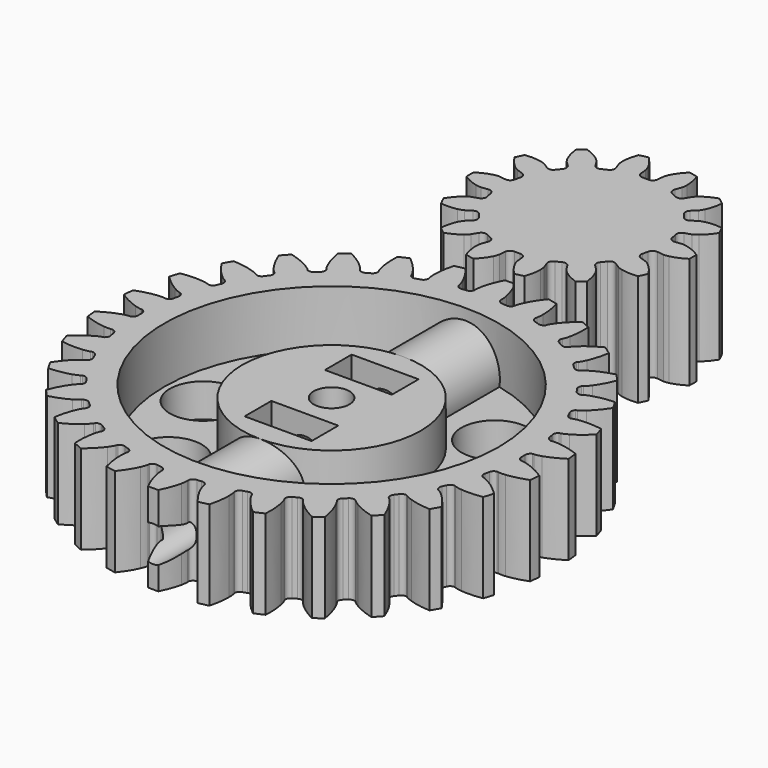
from build123d import *

# Parameters (mm, degrees)
PAD001_DEPTH           = 10
CYLINDER007_R          = 1.6
CYLINDER007_DEPTH      = 50
CYLINDER007_ROLL_ANGLE = 90
BOX003_W               = 6
BOX003_H               = 3
BOX003_DEPTH           = 10
BOX002_W               = 6
BOX002_H               = 3
BOX002_DEPTH           = 10
CYLINDER001_R          = 1.6
CYLINDER001_DEPTH      = 10
CYLINDER008_R          = 3
CYLINDER008_DEPTH      = 10
CYLINDER009_R          = 3
CYLINDER009_DEPTH      = 10
CYLINDER006_R          = 3
CYLINDER006_DEPTH      = 10
CYLINDER005_R          = 3
CYLINDER005_DEPTH      = 10
CYLINDER010_R          = 3
CYLINDER010_DEPTH      = 10
CYLINDER011_R          = 3
CYLINDER011_DEPTH      = 10
CYLINDER_R             = 15
CYLINDER_DEPTH         = 5
PAD_DEPTH              = 8
CYLINDER012_R          = 3.4
CYLINDER012_DEPTH      = 32
CYLINDER012_ROLL_ANGLE = 90
CYLINDER003_R          = 8
CYLINDER003_DEPTH      = 7


with BuildPart() as smallgear:
    # InvoluteGear001 → Pad001 (new body)
    with BuildSketch(Plane.XY):
        with BuildLine():
            Line((7.580241, -0.968702), (8.176422, -1.043899))
            add(Edge.make_bspline(
                [(8.176422, -1.043899), (8.229842, -1.046943), (8.390363, -1.048686), (8.659395, -0.988229)],
                knots=[0, 0, 0, 0, 1, 1, 1, 1], degree=3))
            add(Edge.make_bspline(
                [(8.659395, -0.988229), (8.980207, -0.914566), (9.438706, -0.753064), (9.993456, -0.402975)],
                knots=[0, 0, 0, 0, 1, 1, 1, 1], degree=3))
            ThreePointArc((9.993456, -0.402975), (10.001578, 0), (9.993456, 0.402975))
            add(Edge.make_bspline(
                [(9.993456, 0.402975), (9.438706, 0.753064), (8.980207, 0.914566), (8.659395, 0.988229)],
                knots=[0, 0, 0, 0, 1, 1, 1, 1], degree=3))
            add(Edge.make_bspline(
                [(8.659395, 0.988229), (8.390363, 1.048686), (8.229842, 1.046943), (8.176422, 1.043899)],
                knots=[0, 0, 0, 0, 1, 1, 1, 1], degree=3))
            Line((8.176422, 1.043899), (7.580241, 0.968702))
            ThreePointArc((7.580241, 0.968702), (7.245879, 1.054021), (7.060517, 1.345086))
            ThreePointArc((7.060517, 1.345086), (7.007294, 1.599369), (6.944917, 1.851563))
            ThreePointArc((6.944917, 1.851563), (6.985634, 2.194229), (7.249865, 2.416173))
            Line((7.249865, 2.416173), (7.819632, 2.607096))
            add(Edge.make_bspline(
                [(7.819632, 2.607096), (7.869083, 2.627531), (8.014464, 2.695608), (8.230622, 2.866807)],
                knots=[0, 0, 0, 0, 1, 1, 1, 1], degree=3))
            add(Edge.make_bspline(
                [(8.230622, 2.866807), (8.487703, 3.07237), (8.830722, 3.416814), (9.178637, 3.97293)],
                knots=[0, 0, 0, 0, 1, 1, 1, 1], degree=3))
            ThreePointArc((9.178637, 3.97293), (9.011111, 4.339522), (8.828948, 4.699066))
            add(Edge.make_bspline(
                [(8.828948, 4.699066), (8.177238, 4.773788), (7.694072, 4.720361), (7.373069, 4.647535)],
                knots=[0, 0, 0, 0, 1, 1, 1, 1], degree=3))
            add(Edge.make_bspline(
                [(7.373069, 4.647535), (7.104448, 4.585276), (6.960579, 4.514058), (6.913771, 4.488137)],
                knots=[0, 0, 0, 0, 1, 1, 1, 1], degree=3))
            Line((6.913771, 4.488137), (6.409257, 4.161714))
            ThreePointArc((6.409257, 4.161714), (6.070989, 4.093509), (5.777695, 4.275324))
            ThreePointArc((5.777695, 4.275324), (5.619414, 4.481333), (5.453791, 4.681487))
            ThreePointArc((5.453791, 4.681487), (5.341799, 5.007885), (5.483565, 5.322495))
            Line((5.483565, 5.322495), (5.914069, 5.741724))
            add(Edge.make_bspline(
                [(5.914069, 5.741724), (5.949756, 5.781591), (6.051202, 5.906005), (6.171673, 6.154037)],
                knots=[0, 0, 0, 0, 1, 1, 1, 1], degree=3))
            add(Edge.make_bspline(
                [(6.171673, 6.154037), (6.314104, 6.450786), (6.473706, 6.90995), (6.545876, 7.561947)],
                knots=[0, 0, 0, 0, 1, 1, 1, 1], degree=3))
            ThreePointArc((6.545876, 7.561947), (6.235882, 7.819549), (5.915759, 8.064449))
            add(Edge.make_bspline(
                [(5.915759, 8.064449), (5.296168, 7.849005), (4.884031, 7.591231), (4.626416, 7.386339)],
                knots=[0, 0, 0, 0, 1, 1, 1, 1], degree=3))
            add(Edge.make_bspline(
                [(4.626416, 7.386339), (4.41141, 7.213696), (4.312689, 7.087108), (4.281763, 7.043444)],
                knots=[0, 0, 0, 0, 1, 1, 1, 1], degree=3))
            Line((4.281763, 7.043444), (3.968841, 6.530447))
            ThreePointArc((3.968841, 6.530447), (3.693665, 6.322228), (3.35053, 6.358782))
            ThreePointArc((3.35053, 6.358782), (3.118539, 6.475714), (2.882474, 6.584185))
            ThreePointArc((2.882474, 6.584185), (2.639954, 6.829668), (2.631177, 7.174632))
            Line((2.631177, 7.174632), (2.837151, 7.739133))
            add(Edge.make_bspline(
                [(2.837151, 7.739133), (2.852006, 7.790535), (2.889425, 7.946645), (2.890349, 8.222385)],
                knots=[0, 0, 0, 0, 1, 1, 1, 1], degree=3))
            add(Edge.make_bspline(
                [(2.890349, 8.222385), (2.88992, 8.551545), (2.834492, 9.034486), (2.616625, 9.653228)],
                knots=[0, 0, 0, 0, 1, 1, 1, 1], degree=3))
            ThreePointArc((2.616625, 9.653228), (2.225561, 9.750818), (1.830881, 9.832569))
            add(Edge.make_bspline(
                [(1.830881, 9.832569), (1.366127, 9.369631), (1.106648, 8.958565), (0.963444, 8.662188)],
                knots=[0, 0, 0, 0, 1, 1, 1, 1], degree=3))
            add(Edge.make_bspline(
                [(0.963444, 8.662188), (0.844638, 8.413354), (0.810618, 8.256469), (0.801699, 8.203711)],
                knots=[0, 0, 0, 0, 1, 1, 1, 1], degree=3))
            Line((0.801699, 8.203711), (0.742348, 7.605745))
            ThreePointArc((0.742348, 7.605745), (0.584765, 7.298751), (0.259751, 7.182805))
            ThreePointArc((0.259751, 7.182805), (0, 7.1875), (-0.259751, 7.182805))
            ThreePointArc((-0.259751, 7.182805), (-0.584765, 7.298751), (-0.742348, 7.605745))
            Line((-0.742348, 7.605745), (-0.801699, 8.203711))
            add(Edge.make_bspline(
                [(-0.801699, 8.203711), (-0.810618, 8.256469), (-0.844638, 8.413354), (-0.963444, 8.662188)],
                knots=[0, 0, 0, 0, 1, 1, 1, 1], degree=3))
            add(Edge.make_bspline(
                [(-0.963444, 8.662188), (-1.106648, 8.958565), (-1.366127, 9.369631), (-1.830881, 9.832569)],
                knots=[0, 0, 0, 0, 1, 1, 1, 1], degree=3))
            ThreePointArc((-1.830881, 9.832569), (-2.225561, 9.750818), (-2.616625, 9.653228))
            add(Edge.make_bspline(
                [(-2.616625, 9.653228), (-2.834492, 9.034486), (-2.88992, 8.551545), (-2.890349, 8.222385)],
                knots=[0, 0, 0, 0, 1, 1, 1, 1], degree=3))
            add(Edge.make_bspline(
                [(-2.890349, 8.222385), (-2.889425, 7.946645), (-2.852006, 7.790535), (-2.837151, 7.739133)],
                knots=[0, 0, 0, 0, 1, 1, 1, 1], degree=3))
            Line((-2.837151, 7.739133), (-2.631177, 7.174632))
            ThreePointArc((-2.631177, 7.174632), (-2.639954, 6.829668), (-2.882474, 6.584185))
            ThreePointArc((-2.882474, 6.584185), (-3.118539, 6.475714), (-3.35053, 6.358782))
            ThreePointArc((-3.35053, 6.358782), (-3.693665, 6.322228), (-3.968841, 6.530447))
            Line((-3.968841, 6.530447), (-4.281763, 7.043444))
            add(Edge.make_bspline(
                [(-4.281763, 7.043444), (-4.312689, 7.087108), (-4.41141, 7.213696), (-4.626416, 7.386339)],
                knots=[0, 0, 0, 0, 1, 1, 1, 1], degree=3))
            add(Edge.make_bspline(
                [(-4.626416, 7.386339), (-4.884031, 7.591231), (-5.296168, 7.849005), (-5.915759, 8.064449)],
                knots=[0, 0, 0, 0, 1, 1, 1, 1], degree=3))
            ThreePointArc((-5.915759, 8.064449), (-6.235882, 7.819549), (-6.545876, 7.561947))
            add(Edge.make_bspline(
                [(-6.545876, 7.561947), (-6.473706, 6.90995), (-6.314104, 6.450786), (-6.171673, 6.154037)],
                knots=[0, 0, 0, 0, 1, 1, 1, 1], degree=3))
            add(Edge.make_bspline(
                [(-6.171673, 6.154037), (-6.051202, 5.906005), (-5.949756, 5.781591), (-5.914069, 5.741724)],
                knots=[0, 0, 0, 0, 1, 1, 1, 1], degree=3))
            Line((-5.914069, 5.741724), (-5.483565, 5.322495))
            ThreePointArc((-5.483565, 5.322495), (-5.341799, 5.007885), (-5.453791, 4.681487))
            ThreePointArc((-5.453791, 4.681487), (-5.619414, 4.481333), (-5.777695, 4.275324))
            ThreePointArc((-5.777695, 4.275324), (-6.070989, 4.093509), (-6.409257, 4.161714))
            Line((-6.409257, 4.161714), (-6.913771, 4.488137))
            add(Edge.make_bspline(
                [(-6.913771, 4.488137), (-6.960579, 4.514058), (-7.104448, 4.585276), (-7.373069, 4.647535)],
                knots=[0, 0, 0, 0, 1, 1, 1, 1], degree=3))
            add(Edge.make_bspline(
                [(-7.373069, 4.647535), (-7.694072, 4.720361), (-8.177238, 4.773788), (-8.828948, 4.699066)],
                knots=[0, 0, 0, 0, 1, 1, 1, 1], degree=3))
            ThreePointArc((-8.828948, 4.699066), (-9.011111, 4.339522), (-9.178637, 3.97293))
            add(Edge.make_bspline(
                [(-9.178637, 3.97293), (-8.830722, 3.416814), (-8.487703, 3.07237), (-8.230622, 2.866807)],
                knots=[0, 0, 0, 0, 1, 1, 1, 1], degree=3))
            add(Edge.make_bspline(
                [(-8.230622, 2.866807), (-8.014464, 2.695608), (-7.869083, 2.627531), (-7.819632, 2.607096)],
                knots=[0, 0, 0, 0, 1, 1, 1, 1], degree=3))
            Line((-7.819632, 2.607096), (-7.249865, 2.416173))
            ThreePointArc((-7.249865, 2.416173), (-6.985634, 2.194229), (-6.944917, 1.851563))
            ThreePointArc((-6.944917, 1.851563), (-7.007294, 1.599369), (-7.060517, 1.345086))
            ThreePointArc((-7.060517, 1.345086), (-7.245879, 1.054021), (-7.580241, 0.968702))
            Line((-7.580241, 0.968702), (-8.176422, 1.043899))
            add(Edge.make_bspline(
                [(-8.176422, 1.043899), (-8.229842, 1.046943), (-8.390363, 1.048686), (-8.659395, 0.988229)],
                knots=[0, 0, 0, 0, 1, 1, 1, 1], degree=3))
            add(Edge.make_bspline(
                [(-8.659395, 0.988229), (-8.980207, 0.914566), (-9.438706, 0.753064), (-9.993456, 0.402975)],
                knots=[0, 0, 0, 0, 1, 1, 1, 1], degree=3))
            ThreePointArc((-9.993456, 0.402975), (-10.001578, 0), (-9.993456, -0.402975))
            add(Edge.make_bspline(
                [(-9.993456, -0.402975), (-9.438706, -0.753064), (-8.980207, -0.914566), (-8.659395, -0.988229)],
                knots=[0, 0, 0, 0, 1, 1, 1, 1], degree=3))
            add(Edge.make_bspline(
                [(-8.659395, -0.988229), (-8.390363, -1.048686), (-8.229842, -1.046943), (-8.176422, -1.043899)],
                knots=[0, 0, 0, 0, 1, 1, 1, 1], degree=3))
            Line((-8.176422, -1.043899), (-7.580241, -0.968702))
            ThreePointArc((-7.580241, -0.968702), (-7.245879, -1.054021), (-7.060517, -1.345086))
            ThreePointArc((-7.060517, -1.345086), (-7.007294, -1.599369), (-6.944917, -1.851563))
            ThreePointArc((-6.944917, -1.851563), (-6.985634, -2.194229), (-7.249865, -2.416173))
            Line((-7.249865, -2.416173), (-7.819632, -2.607096))
            add(Edge.make_bspline(
                [(-7.819632, -2.607096), (-7.869083, -2.627531), (-8.014464, -2.695608), (-8.230622, -2.866807)],
                knots=[0, 0, 0, 0, 1, 1, 1, 1], degree=3))
            add(Edge.make_bspline(
                [(-8.230622, -2.866807), (-8.487703, -3.07237), (-8.830722, -3.416814), (-9.178637, -3.97293)],
                knots=[0, 0, 0, 0, 1, 1, 1, 1], degree=3))
            ThreePointArc((-9.178637, -3.97293), (-9.011111, -4.339522), (-8.828948, -4.699066))
            add(Edge.make_bspline(
                [(-8.828948, -4.699066), (-8.177238, -4.773788), (-7.694072, -4.720361), (-7.373069, -4.647535)],
                knots=[0, 0, 0, 0, 1, 1, 1, 1], degree=3))
            add(Edge.make_bspline(
                [(-7.373069, -4.647535), (-7.104448, -4.585276), (-6.960579, -4.514058), (-6.913771, -4.488137)],
                knots=[0, 0, 0, 0, 1, 1, 1, 1], degree=3))
            Line((-6.913771, -4.488137), (-6.409257, -4.161714))
            ThreePointArc((-6.409257, -4.161714), (-6.070989, -4.093509), (-5.777695, -4.275324))
            ThreePointArc((-5.777695, -4.275324), (-5.619414, -4.481333), (-5.453791, -4.681487))
            ThreePointArc((-5.453791, -4.681487), (-5.341799, -5.007885), (-5.483565, -5.322495))
            Line((-5.483565, -5.322495), (-5.914069, -5.741724))
            add(Edge.make_bspline(
                [(-5.914069, -5.741724), (-5.949756, -5.781591), (-6.051202, -5.906005), (-6.171673, -6.154037)],
                knots=[0, 0, 0, 0, 1, 1, 1, 1], degree=3))
            add(Edge.make_bspline(
                [(-6.171673, -6.154037), (-6.314104, -6.450786), (-6.473706, -6.90995), (-6.545876, -7.561947)],
                knots=[0, 0, 0, 0, 1, 1, 1, 1], degree=3))
            ThreePointArc((-6.545876, -7.561947), (-6.235882, -7.819549), (-5.915759, -8.064449))
            add(Edge.make_bspline(
                [(-5.915759, -8.064449), (-5.296168, -7.849005), (-4.884031, -7.591231), (-4.626416, -7.386339)],
                knots=[0, 0, 0, 0, 1, 1, 1, 1], degree=3))
            add(Edge.make_bspline(
                [(-4.626416, -7.386339), (-4.41141, -7.213696), (-4.312689, -7.087108), (-4.281763, -7.043444)],
                knots=[0, 0, 0, 0, 1, 1, 1, 1], degree=3))
            Line((-4.281763, -7.043444), (-3.968841, -6.530447))
            ThreePointArc((-3.968841, -6.530447), (-3.693665, -6.322228), (-3.35053, -6.358782))
            ThreePointArc((-3.35053, -6.358782), (-3.118539, -6.475714), (-2.882474, -6.584185))
            ThreePointArc((-2.882474, -6.584185), (-2.639954, -6.829668), (-2.631177, -7.174632))
            Line((-2.631177, -7.174632), (-2.837151, -7.739133))
            add(Edge.make_bspline(
                [(-2.837151, -7.739133), (-2.852006, -7.790535), (-2.889425, -7.946645), (-2.890349, -8.222385)],
                knots=[0, 0, 0, 0, 1, 1, 1, 1], degree=3))
            add(Edge.make_bspline(
                [(-2.890349, -8.222385), (-2.88992, -8.551545), (-2.834492, -9.034486), (-2.616625, -9.653228)],
                knots=[0, 0, 0, 0, 1, 1, 1, 1], degree=3))
            ThreePointArc((-2.616625, -9.653228), (-2.225561, -9.750818), (-1.830881, -9.832569))
            add(Edge.make_bspline(
                [(-1.830881, -9.832569), (-1.366127, -9.369631), (-1.106648, -8.958565), (-0.963444, -8.662188)],
                knots=[0, 0, 0, 0, 1, 1, 1, 1], degree=3))
            add(Edge.make_bspline(
                [(-0.963444, -8.662188), (-0.844638, -8.413354), (-0.810618, -8.256469), (-0.801699, -8.203711)],
                knots=[0, 0, 0, 0, 1, 1, 1, 1], degree=3))
            Line((-0.801699, -8.203711), (-0.742348, -7.605745))
            ThreePointArc((-0.742348, -7.605745), (-0.584765, -7.298751), (-0.259751, -7.182805))
            ThreePointArc((-0.259751, -7.182805), (0, -7.1875), (0.259751, -7.182805))
            ThreePointArc((0.259751, -7.182805), (0.584765, -7.298751), (0.742348, -7.605745))
            Line((0.742348, -7.605745), (0.801699, -8.203711))
            add(Edge.make_bspline(
                [(0.801699, -8.203711), (0.810618, -8.256469), (0.844638, -8.413354), (0.963444, -8.662188)],
                knots=[0, 0, 0, 0, 1, 1, 1, 1], degree=3))
            add(Edge.make_bspline(
                [(0.963444, -8.662188), (1.106648, -8.958565), (1.366127, -9.369631), (1.830881, -9.832569)],
                knots=[0, 0, 0, 0, 1, 1, 1, 1], degree=3))
            ThreePointArc((1.830881, -9.832569), (2.225561, -9.750818), (2.616625, -9.653228))
            add(Edge.make_bspline(
                [(2.616625, -9.653228), (2.834492, -9.034486), (2.88992, -8.551545), (2.890349, -8.222385)],
                knots=[0, 0, 0, 0, 1, 1, 1, 1], degree=3))
            add(Edge.make_bspline(
                [(2.890349, -8.222385), (2.889425, -7.946645), (2.852006, -7.790535), (2.837151, -7.739133)],
                knots=[0, 0, 0, 0, 1, 1, 1, 1], degree=3))
            Line((2.837151, -7.739133), (2.631177, -7.174632))
            ThreePointArc((2.631177, -7.174632), (2.639954, -6.829668), (2.882474, -6.584185))
            ThreePointArc((2.882474, -6.584185), (3.118539, -6.475714), (3.35053, -6.358782))
            ThreePointArc((3.35053, -6.358782), (3.693665, -6.322228), (3.968841, -6.530447))
            Line((3.968841, -6.530447), (4.281763, -7.043444))
            add(Edge.make_bspline(
                [(4.281763, -7.043444), (4.312689, -7.087108), (4.41141, -7.213696), (4.626416, -7.386339)],
                knots=[0, 0, 0, 0, 1, 1, 1, 1], degree=3))
            add(Edge.make_bspline(
                [(4.626416, -7.386339), (4.884031, -7.591231), (5.296168, -7.849005), (5.915759, -8.064449)],
                knots=[0, 0, 0, 0, 1, 1, 1, 1], degree=3))
            ThreePointArc((5.915759, -8.064449), (6.235882, -7.819549), (6.545876, -7.561947))
            add(Edge.make_bspline(
                [(6.545876, -7.561947), (6.473706, -6.90995), (6.314104, -6.450786), (6.171673, -6.154037)],
                knots=[0, 0, 0, 0, 1, 1, 1, 1], degree=3))
            add(Edge.make_bspline(
                [(6.171673, -6.154037), (6.051202, -5.906005), (5.949756, -5.781591), (5.914069, -5.741724)],
                knots=[0, 0, 0, 0, 1, 1, 1, 1], degree=3))
            Line((5.914069, -5.741724), (5.483565, -5.322495))
            ThreePointArc((5.483565, -5.322495), (5.341799, -5.007885), (5.453791, -4.681487))
            ThreePointArc((5.453791, -4.681487), (5.619414, -4.481333), (5.777695, -4.275324))
            ThreePointArc((5.777695, -4.275324), (6.070989, -4.093509), (6.409257, -4.161714))
            Line((6.409257, -4.161714), (6.913771, -4.488137))
            add(Edge.make_bspline(
                [(6.913771, -4.488137), (6.960579, -4.514058), (7.104448, -4.585276), (7.373069, -4.647535)],
                knots=[0, 0, 0, 0, 1, 1, 1, 1], degree=3))
            add(Edge.make_bspline(
                [(7.373069, -4.647535), (7.694072, -4.720361), (8.177238, -4.773788), (8.828948, -4.699066)],
                knots=[0, 0, 0, 0, 1, 1, 1, 1], degree=3))
            ThreePointArc((8.828948, -4.699066), (9.011111, -4.339522), (9.178637, -3.97293))
            add(Edge.make_bspline(
                [(9.178637, -3.97293), (8.830722, -3.416814), (8.487703, -3.07237), (8.230622, -2.866807)],
                knots=[0, 0, 0, 0, 1, 1, 1, 1], degree=3))
            add(Edge.make_bspline(
                [(8.230622, -2.866807), (8.014464, -2.695608), (7.869083, -2.627531), (7.819632, -2.607096)],
                knots=[0, 0, 0, 0, 1, 1, 1, 1], degree=3))
            Line((7.819632, -2.607096), (7.249865, -2.416173))
            ThreePointArc((7.249865, -2.416173), (6.985634, -2.194229), (6.944917, -1.851563))
            ThreePointArc((6.944917, -1.851563), (7.007294, -1.599369), (7.060517, -1.345086))
            ThreePointArc((7.060517, -1.345086), (7.245879, -1.054021), (7.580241, -0.968702))
        make_face()
    extrude(amount=PAD001_DEPTH)


with BuildPart() as obj1:
    # Cylinder007 → Cylinder007 (new body)
    with BuildSketch(Plane.XY):
        Circle(CYLINDER007_R)
    extrude(amount=CYLINDER007_DEPTH)


with BuildPart() as obj1_1:
    # Cylinder007 roll: moved
    add(obj1.part.rotate(Axis((0, 0, 0), (1, 0, 0)), CYLINDER007_ROLL_ANGLE))


with BuildPart() as obj1_2:
    # Cylinder007 placement: moved
    add(obj1_1.part.moved(Location((0, 0, 3.6))))


with BuildPart() as obj2:
    # Box003 → Box003 (new body)
    with BuildSketch(Plane(origin=(-3, -34, 0), x_dir=(1, 0, 0), z_dir=(0, 0, 1))):
        with Locations((3, 1.5)):
            Rectangle(BOX003_W, BOX003_H)
    extrude(amount=BOX003_DEPTH)


with BuildPart() as obj3:
    # Box002 → Box002 (new body)
    with BuildSketch(Plane(origin=(-3, -25, 0), x_dir=(1, 0, 0), z_dir=(0, 0, 1))):
        with Locations((3, 1.5)):
            Rectangle(BOX002_W, BOX002_H)
    extrude(amount=BOX002_DEPTH)


with BuildPart() as cylinder001:
    # Cylinder001 → Cylinder001 (new body)
    with BuildSketch(Plane(origin=(0, -28, 0), x_dir=(1, 0, 0), z_dir=(0, 0, 1))):
        Circle(CYLINDER001_R)
    extrude(amount=CYLINDER001_DEPTH)


with BuildPart() as cylinder008:
    # Cylinder008 → Cylinder008 (new body)
    with BuildSketch(Plane(origin=(8.13, -19.87, 0), x_dir=(1, 0, 0), z_dir=(0, 0, 1))):
        Circle(CYLINDER008_R)
    extrude(amount=CYLINDER008_DEPTH)


with BuildPart() as cylinder009:
    # Cylinder009 → Cylinder009 (new body)
    with BuildSketch(Plane(origin=(8.13, -36.13, 0), x_dir=(1, 0, 0), z_dir=(0, 0, 1))):
        Circle(CYLINDER009_R)
    extrude(amount=CYLINDER009_DEPTH)


with BuildPart() as cylinder006:
    # Cylinder006 → Cylinder006 (new body)
    with BuildSketch(Plane(origin=(-11.5, -28, 0), x_dir=(1, 0, 0), z_dir=(0, 0, 1))):
        Circle(CYLINDER006_R)
    extrude(amount=CYLINDER006_DEPTH)


with BuildPart() as cylinder005:
    # Cylinder005 → Cylinder005 (new body)
    with BuildSketch(Plane(origin=(11.5, -28, 0), x_dir=(1, 0, 0), z_dir=(0, 0, 1))):
        Circle(CYLINDER005_R)
    extrude(amount=CYLINDER005_DEPTH)


with BuildPart() as cylinder010:
    # Cylinder010 → Cylinder010 (new body)
    with BuildSketch(Plane(origin=(-8.13, -19.87, 0), x_dir=(1, 0, 0), z_dir=(0, 0, 1))):
        Circle(CYLINDER010_R)
    extrude(amount=CYLINDER010_DEPTH)


with BuildPart() as obj4:
    # Cylinder011 → Cylinder011 (new body)
    with BuildSketch(Plane(origin=(-8.13, -36.13, 0), x_dir=(1, 0, 0), z_dir=(0, 0, 1))):
        Circle(CYLINDER011_R)
    extrude(amount=CYLINDER011_DEPTH)

    # Fusion: union Cylinder001, Cylinder008, Cylinder009, Cylinder006, Cylinder005, Cylinder010
    add(cylinder001.part)
    add(cylinder008.part)
    add(cylinder009.part)
    add(cylinder006.part)
    add(cylinder005.part)
    add(cylinder010.part)


with BuildPart() as obj5:
    # Cylinder → Cylinder (new body)
    with BuildSketch(Plane(origin=(0, -28, 3), x_dir=(1, 0, 0), z_dir=(0, 0, 1))):
        Circle(CYLINDER_R)
    extrude(amount=CYLINDER_DEPTH)


with BuildPart() as cut:
    # InvoluteGear → Pad (new body)
    with BuildSketch(Plane(origin=(0, -28, 0), x_dir=(0.994522, 0.104528, 0), z_dir=(0, 0, 1))):
        with BuildLine():
            Line((17.460426, -1.176237), (17.605424, -1.185048))
            add(Edge.make_bspline(
                [(17.605424, -1.185048), (17.674455, -1.185953), (17.882541, -1.181217), (18.228863, -1.109632)],
                knots=[0, 0, 0, 0, 1, 1, 1, 1], degree=3))
            add(Edge.make_bspline(
                [(18.228863, -1.109632), (18.644116, -1.022848), (19.245071, -0.840739), (19.995964, -0.460396)],
                knots=[0, 0, 0, 0, 1, 1, 1, 1], degree=3))
            ThreePointArc((19.995964, -0.460396), (20.001264, 0), (19.995964, 0.460396))
            add(Edge.make_bspline(
                [(19.995964, 0.460396), (19.245071, 0.840739), (18.644116, 1.022848), (18.228863, 1.109632)],
                knots=[0, 0, 0, 0, 1, 1, 1, 1], degree=3))
            add(Edge.make_bspline(
                [(18.228863, 1.109632), (17.882541, 1.181217), (17.674455, 1.185953), (17.605424, 1.185048)],
                knots=[0, 0, 0, 0, 1, 1, 1, 1], degree=3))
            Line((17.605424, 1.185048), (17.460426, 1.176237))
            ThreePointArc((17.460426, 1.176237), (17.214877, 1.335794), (17.111933, 1.609939))
            ThreePointArc((17.111933, 1.609939), (17.093345, 1.796583), (17.072721, 1.983013))
            ThreePointArc((17.072721, 1.983013), (17.116417, 2.27257), (17.323427, 2.479693))
            Line((17.323427, 2.479693), (17.467088, 2.501222))
            add(Edge.make_bspline(
                [(17.467088, 2.501222), (17.534799, 2.514689), (17.737354, 2.562584), (18.061224, 2.704609)],
                knots=[0, 0, 0, 0, 1, 1, 1, 1], degree=3))
            add(Edge.make_bspline(
                [(18.061224, 2.704609), (18.44936, 2.875833), (18.99932, 3.178908), (19.654726, 3.707059)],
                knots=[0, 0, 0, 0, 1, 1, 1, 1], degree=3))
            ThreePointArc((19.654726, 3.707059), (19.564188, 4.158497), (19.463282, 4.60773))
            add(Edge.make_bspline(
                [(19.463282, 4.60773), (18.649721, 4.823642), (18.024035, 4.876826), (17.599813, 4.875378)],
                knots=[0, 0, 0, 0, 1, 1, 1, 1], degree=3))
            add(Edge.make_bspline(
                [(17.599813, 4.875378), (17.246176, 4.873394), (17.041652, 4.834763), (16.974318, 4.819525)],
                knots=[0, 0, 0, 0, 1, 1, 1, 1], degree=3))
            Line((16.974318, 4.819525), (16.83432, 4.78076))
            ThreePointArc((16.83432, 4.78076), (16.560963, 4.885778), (16.403271, 5.132529))
            ThreePointArc((16.403271, 5.132529), (16.346284, 5.31123), (16.28735, 5.489298))
            ThreePointArc((16.28735, 5.489298), (16.269889, 5.781612), (16.429311, 6.027249))
            Line((16.429311, 6.027249), (16.565357, 6.078176))
            add(Edge.make_bspline(
                [(16.565357, 6.078176), (16.628789, 6.105427), (16.816959, 6.194389), (17.104223, 6.400647)],
                knots=[0, 0, 0, 0, 1, 1, 1, 1], degree=3))
            add(Edge.make_bspline(
                [(17.104223, 6.400647), (17.448278, 6.648827), (17.923207, 7.059622), (18.454482, 7.712499)],
                knots=[0, 0, 0, 0, 1, 1, 1, 1], degree=3))
            ThreePointArc((18.454482, 7.712499), (18.272064, 8.135247), (18.079962, 8.553684))
            add(Edge.make_bspline(
                [(18.079962, 8.553684), (17.239288, 8.595729), (16.616218, 8.517664), (16.201567, 8.428046)],
                knots=[0, 0, 0, 0, 1, 1, 1, 1], degree=3))
            add(Edge.make_bspline(
                [(16.201567, 8.428046), (15.85607, 8.35258), (15.664048, 8.27227), (15.601352, 8.243366)],
                knots=[0, 0, 0, 0, 1, 1, 1, 1], degree=3))
            Line((15.601352, 8.243366), (15.472474, 8.176341))
            ThreePointArc((15.472474, 8.176341), (15.183256, 8.22223), (14.977707, 8.430803))
            ThreePointArc((14.977707, 8.430803), (14.884812, 8.59375), (14.790143, 8.755674))
            ThreePointArc((14.790143, 8.755674), (14.712288, 9.03797), (14.817156, 9.311385))
            Line((14.817156, 9.311385), (14.939641, 9.389484))
            add(Edge.make_bspline(
                [(14.939641, 9.389484), (14.99602, 9.429328), (15.161582, 9.555469), (15.399685, 9.816945)],
                knots=[0, 0, 0, 0, 1, 1, 1, 1], degree=3))
            add(Edge.make_bspline(
                [(15.399685, 9.816945), (15.684622, 10.131235), (16.063764, 10.631797), (16.447689, 11.380865)],
                knots=[0, 0, 0, 0, 1, 1, 1, 1], degree=3))
            ThreePointArc((16.447689, 11.380865), (16.181362, 11.756448), (15.906461, 12.125801))
            add(Edge.make_bspline(
                [(15.906461, 12.125801), (15.075416, 11.992141), (14.482192, 11.786238), (14.095234, 11.612368)],
                knots=[0, 0, 0, 0, 1, 1, 1, 1], degree=3))
            add(Edge.make_bspline(
                [(14.095234, 11.612368), (13.772977, 11.466719), (13.601849, 11.34824), (13.546533, 11.306932)],
                knots=[0, 0, 0, 0, 1, 1, 1, 1], degree=3))
            Line((13.546533, 11.306932), (13.434406, 11.214577))
            ThreePointArc((13.434406, 11.214577), (13.141968, 11.199331), (12.897546, 11.36061))
            ThreePointArc((12.897546, 11.36061), (12.772802, 11.500682), (12.646536, 11.639385))
            ThreePointArc((12.646536, 11.639385), (12.511689, 11.899326), (12.55742, 12.188569))
            Line((12.55742, 12.188569), (12.66099, 12.290428))
            add(Edge.make_bspline(
                [(12.66099, 12.290428), (12.707854, 12.341122), (12.843571, 12.498929), (13.022107, 12.804196)],
                knots=[0, 0, 0, 0, 1, 1, 1, 1], degree=3))
            add(Edge.make_bspline(
                [(13.022107, 12.804196), (13.235473, 13.170859), (13.502257, 13.739311), (13.722052, 14.551832)],
                knots=[0, 0, 0, 0, 1, 1, 1, 1], degree=3))
            ThreePointArc((13.722052, 14.551832), (13.383458, 14.863836), (13.037771, 15.167962))
            add(Edge.make_bspline(
                [(13.037771, 15.167962), (12.252675, 14.864439), (11.715224, 14.539698), (11.372872, 14.289174)],
                knots=[0, 0, 0, 0, 1, 1, 1, 1], degree=3))
            add(Edge.make_bspline(
                [(11.372872, 14.289174), (11.08794, 14.079707), (10.945184, 13.928237), (10.899666, 13.876331)],
                knots=[0, 0, 0, 0, 1, 1, 1, 1], degree=3))
            Line((10.899666, 13.876331), (10.809191, 13.762681))
            ThreePointArc((10.809191, 13.762681), (10.526312, 13.686967), (10.2537, 13.793904))
            ThreePointArc((10.2537, 13.793904), (10.102559, 13.90498), (9.950215, 14.014399))
            ThreePointArc((9.950215, 14.014399), (9.76427, 14.240623), (9.748864, 14.533054))
            Line((9.748864, 14.533054), (9.828994, 14.65422))
            add(Edge.make_bspline(
                [(9.828994, 14.65422), (9.864293, 14.713551), (9.964235, 14.896126), (10.075401, 15.231842)],
                knots=[0, 0, 0, 0, 1, 1, 1, 1], degree=3))
            add(Edge.make_bspline(
                [(10.075401, 15.231842), (10.207871, 15.634854), (10.350637, 16.246351), (10.396697, 17.086815)],
                knots=[0, 0, 0, 0, 1, 1, 1, 1], degree=3))
            ThreePointArc((10.396697, 17.086815), (10.000632, 17.321602), (9.599267, 17.547211))
            add(Edge.make_bspline(
                [(9.599267, 17.547211), (8.894434, 17.08709), (8.436245, 16.657702), (8.153462, 16.341474)],
                knots=[0, 0, 0, 0, 1, 1, 1, 1], degree=3))
            add(Edge.make_bspline(
                [(8.153462, 16.341474), (7.918306, 16.077344), (7.810162, 15.899504), (7.77643, 15.839268)],
                knots=[0, 0, 0, 0, 1, 1, 1, 1], degree=3))
            Line((7.77643, 15.839268), (7.711562, 15.709291))
            ThreePointArc((7.711562, 15.709291), (7.450607, 15.576417), (7.161718, 15.624338))
            ThreePointArc((7.161718, 15.624338), (6.990786, 15.701563), (6.819021, 15.776917))
            ThreePointArc((6.819021, 15.776917), (6.590105, 15.959537), (6.514236, 16.242374))
            Line((6.514236, 16.242374), (6.567423, 16.377553))
            add(Edge.make_bspline(
                [(6.567423, 16.377553), (6.589615, 16.442926), (6.649414, 16.642291), (6.688351, 16.993783)],
                knots=[0, 0, 0, 0, 1, 1, 1, 1], degree=3))
            add(Edge.make_bspline(
                [(6.688351, 16.993783), (6.734135, 17.415531), (6.746644, 18.043348), (6.616955, 18.875022)],
                knots=[0, 0, 0, 0, 1, 1, 1, 1], degree=3))
            ThreePointArc((6.616955, 18.875022), (6.18073, 19.022332), (5.74123, 19.159562))
            add(Edge.make_bspline(
                [(5.74123, 19.159562), (5.147464, 18.562953), (4.788562, 18.047686), (4.577705, 17.679574)],
                knots=[0, 0, 0, 0, 1, 1, 1, 1], degree=3))
            add(Edge.make_bspline(
                [(4.577705, 17.679574), (4.402605, 17.372323), (4.333799, 17.175885), (4.313328, 17.109953)],
                knots=[0, 0, 0, 0, 1, 1, 1, 1], degree=3))
            Line((4.313328, 17.109953), (4.2769, 16.969329))
            ThreePointArc((4.2769, 16.969329), (4.049274, 16.785104), (3.756735, 16.771914))
            ThreePointArc((3.756735, 16.771914), (3.573482, 16.811912), (3.389804, 16.849908))
            ThreePointArc((3.389804, 16.849908), (3.127921, 16.980943), (2.994905, 17.241825))
            Line((2.994905, 17.241825), (3.018824, 17.385108))
            add(Edge.make_bspline(
                [(3.018824, 17.385108), (3.02694, 17.453667), (3.043981, 17.661108), (3.008989, 18.013015)],
                knots=[0, 0, 0, 0, 1, 1, 1, 1], degree=3))
            add(Edge.make_bspline(
                [(3.008989, 18.013015), (2.966086, 18.435065), (2.847791, 19.051764), (2.548021, 19.838299)],
                knots=[0, 0, 0, 0, 1, 1, 1, 1], degree=3))
            ThreePointArc((2.548021, 19.838299), (2.090701, 19.891695), (1.632274, 19.934548))
            add(Edge.make_bspline(
                [(1.632274, 19.934548), (1.175524, 19.227526), (0.931596, 18.648899), (0.801881, 18.244991)],
                knots=[0, 0, 0, 0, 1, 1, 1, 1], degree=3))
            add(Edge.make_bspline(
                [(0.801881, 18.244991), (0.694488, 17.908049), (0.668028, 17.701598), (0.661712, 17.632851)],
                knots=[0, 0, 0, 0, 1, 1, 1, 1], degree=3))
            Line((0.661712, 17.632851), (0.655318, 17.487726))
            ThreePointArc((0.655318, 17.487726), (0.470968, 17.2602), (0.187564, 17.186477))
            ThreePointArc((0.187564, 17.186477), (0, 17.1875), (-0.187564, 17.186477))
            ThreePointArc((-0.187564, 17.186477), (-0.470968, 17.2602), (-0.655318, 17.487726))
            Line((-0.655318, 17.487726), (-0.661712, 17.632851))
            add(Edge.make_bspline(
                [(-0.661712, 17.632851), (-0.668028, 17.701598), (-0.694488, 17.908049), (-0.801881, 18.244991)],
                knots=[0, 0, 0, 0, 1, 1, 1, 1], degree=3))
            add(Edge.make_bspline(
                [(-0.801881, 18.244991), (-0.931596, 18.648899), (-1.175524, 19.227526), (-1.632274, 19.934548)],
                knots=[0, 0, 0, 0, 1, 1, 1, 1], degree=3))
            ThreePointArc((-1.632274, 19.934548), (-2.090701, 19.891695), (-2.548021, 19.838299))
            add(Edge.make_bspline(
                [(-2.548021, 19.838299), (-2.847791, 19.051764), (-2.966086, 18.435065), (-3.008989, 18.013015)],
                knots=[0, 0, 0, 0, 1, 1, 1, 1], degree=3))
            add(Edge.make_bspline(
                [(-3.008989, 18.013015), (-3.043981, 17.661108), (-3.02694, 17.453667), (-3.018824, 17.385108)],
                knots=[0, 0, 0, 0, 1, 1, 1, 1], degree=3))
            Line((-3.018824, 17.385108), (-2.994905, 17.241825))
            ThreePointArc((-2.994905, 17.241825), (-3.127921, 16.980943), (-3.389804, 16.849908))
            ThreePointArc((-3.389804, 16.849908), (-3.573482, 16.811912), (-3.756735, 16.771914))
            ThreePointArc((-3.756735, 16.771914), (-4.049274, 16.785104), (-4.2769, 16.969329))
            Line((-4.2769, 16.969329), (-4.313328, 17.109953))
            add(Edge.make_bspline(
                [(-4.313328, 17.109953), (-4.333799, 17.175885), (-4.402605, 17.372323), (-4.577705, 17.679574)],
                knots=[0, 0, 0, 0, 1, 1, 1, 1], degree=3))
            add(Edge.make_bspline(
                [(-4.577705, 17.679574), (-4.788562, 18.047686), (-5.147464, 18.562953), (-5.74123, 19.159562)],
                knots=[0, 0, 0, 0, 1, 1, 1, 1], degree=3))
            ThreePointArc((-5.74123, 19.159562), (-6.18073, 19.022332), (-6.616955, 18.875022))
            add(Edge.make_bspline(
                [(-6.616955, 18.875022), (-6.746644, 18.043348), (-6.734135, 17.415531), (-6.688351, 16.993783)],
                knots=[0, 0, 0, 0, 1, 1, 1, 1], degree=3))
            add(Edge.make_bspline(
                [(-6.688351, 16.993783), (-6.649414, 16.642291), (-6.589615, 16.442926), (-6.567423, 16.377553)],
                knots=[0, 0, 0, 0, 1, 1, 1, 1], degree=3))
            Line((-6.567423, 16.377553), (-6.514236, 16.242374))
            ThreePointArc((-6.514236, 16.242374), (-6.590105, 15.959537), (-6.819021, 15.776917))
            ThreePointArc((-6.819021, 15.776917), (-6.990786, 15.701563), (-7.161718, 15.624338))
            ThreePointArc((-7.161718, 15.624338), (-7.450607, 15.576417), (-7.711562, 15.709291))
            Line((-7.711562, 15.709291), (-7.77643, 15.839268))
            add(Edge.make_bspline(
                [(-7.77643, 15.839268), (-7.810162, 15.899504), (-7.918306, 16.077344), (-8.153462, 16.341474)],
                knots=[0, 0, 0, 0, 1, 1, 1, 1], degree=3))
            add(Edge.make_bspline(
                [(-8.153462, 16.341474), (-8.436245, 16.657702), (-8.894434, 17.08709), (-9.599267, 17.547211)],
                knots=[0, 0, 0, 0, 1, 1, 1, 1], degree=3))
            ThreePointArc((-9.599267, 17.547211), (-10.000632, 17.321602), (-10.396697, 17.086815))
            add(Edge.make_bspline(
                [(-10.396697, 17.086815), (-10.350637, 16.246351), (-10.207871, 15.634854), (-10.075401, 15.231842)],
                knots=[0, 0, 0, 0, 1, 1, 1, 1], degree=3))
            add(Edge.make_bspline(
                [(-10.075401, 15.231842), (-9.964235, 14.896126), (-9.864293, 14.713551), (-9.828994, 14.65422)],
                knots=[0, 0, 0, 0, 1, 1, 1, 1], degree=3))
            Line((-9.828994, 14.65422), (-9.748864, 14.533054))
            ThreePointArc((-9.748864, 14.533054), (-9.76427, 14.240623), (-9.950215, 14.014399))
            ThreePointArc((-9.950215, 14.014399), (-10.102559, 13.90498), (-10.2537, 13.793904))
            ThreePointArc((-10.2537, 13.793904), (-10.526312, 13.686967), (-10.809191, 13.762681))
            Line((-10.809191, 13.762681), (-10.899666, 13.876331))
            add(Edge.make_bspline(
                [(-10.899666, 13.876331), (-10.945184, 13.928237), (-11.08794, 14.079707), (-11.372872, 14.289174)],
                knots=[0, 0, 0, 0, 1, 1, 1, 1], degree=3))
            add(Edge.make_bspline(
                [(-11.372872, 14.289174), (-11.715224, 14.539698), (-12.252675, 14.864439), (-13.037771, 15.167962)],
                knots=[0, 0, 0, 0, 1, 1, 1, 1], degree=3))
            ThreePointArc((-13.037771, 15.167962), (-13.383458, 14.863836), (-13.722052, 14.551832))
            add(Edge.make_bspline(
                [(-13.722052, 14.551832), (-13.502257, 13.739311), (-13.235473, 13.170859), (-13.022107, 12.804196)],
                knots=[0, 0, 0, 0, 1, 1, 1, 1], degree=3))
            add(Edge.make_bspline(
                [(-13.022107, 12.804196), (-12.843571, 12.498929), (-12.707854, 12.341122), (-12.66099, 12.290428)],
                knots=[0, 0, 0, 0, 1, 1, 1, 1], degree=3))
            Line((-12.66099, 12.290428), (-12.55742, 12.188569))
            ThreePointArc((-12.55742, 12.188569), (-12.511689, 11.899326), (-12.646536, 11.639385))
            ThreePointArc((-12.646536, 11.639385), (-12.772802, 11.500682), (-12.897546, 11.36061))
            ThreePointArc((-12.897546, 11.36061), (-13.141968, 11.199331), (-13.434406, 11.214577))
            Line((-13.434406, 11.214577), (-13.546533, 11.306932))
            add(Edge.make_bspline(
                [(-13.546533, 11.306932), (-13.601849, 11.34824), (-13.772977, 11.466719), (-14.095234, 11.612368)],
                knots=[0, 0, 0, 0, 1, 1, 1, 1], degree=3))
            add(Edge.make_bspline(
                [(-14.095234, 11.612368), (-14.482192, 11.786238), (-15.075416, 11.992141), (-15.906461, 12.125801)],
                knots=[0, 0, 0, 0, 1, 1, 1, 1], degree=3))
            ThreePointArc((-15.906461, 12.125801), (-16.181362, 11.756448), (-16.447689, 11.380865))
            add(Edge.make_bspline(
                [(-16.447689, 11.380865), (-16.063764, 10.631797), (-15.684622, 10.131235), (-15.399685, 9.816945)],
                knots=[0, 0, 0, 0, 1, 1, 1, 1], degree=3))
            add(Edge.make_bspline(
                [(-15.399685, 9.816945), (-15.161582, 9.555469), (-14.99602, 9.429328), (-14.939641, 9.389484)],
                knots=[0, 0, 0, 0, 1, 1, 1, 1], degree=3))
            Line((-14.939641, 9.389484), (-14.817156, 9.311385))
            ThreePointArc((-14.817156, 9.311385), (-14.712288, 9.03797), (-14.790143, 8.755674))
            ThreePointArc((-14.790143, 8.755674), (-14.884812, 8.59375), (-14.977707, 8.430803))
            ThreePointArc((-14.977707, 8.430803), (-15.183256, 8.22223), (-15.472474, 8.176341))
            Line((-15.472474, 8.176341), (-15.601352, 8.243366))
            add(Edge.make_bspline(
                [(-15.601352, 8.243366), (-15.664048, 8.27227), (-15.85607, 8.35258), (-16.201567, 8.428046)],
                knots=[0, 0, 0, 0, 1, 1, 1, 1], degree=3))
            add(Edge.make_bspline(
                [(-16.201567, 8.428046), (-16.616218, 8.517664), (-17.239288, 8.595729), (-18.079962, 8.553684)],
                knots=[0, 0, 0, 0, 1, 1, 1, 1], degree=3))
            ThreePointArc((-18.079962, 8.553684), (-18.272064, 8.135247), (-18.454482, 7.712499))
            add(Edge.make_bspline(
                [(-18.454482, 7.712499), (-17.923207, 7.059622), (-17.448278, 6.648827), (-17.104223, 6.400647)],
                knots=[0, 0, 0, 0, 1, 1, 1, 1], degree=3))
            add(Edge.make_bspline(
                [(-17.104223, 6.400647), (-16.816959, 6.194389), (-16.628789, 6.105427), (-16.565357, 6.078176)],
                knots=[0, 0, 0, 0, 1, 1, 1, 1], degree=3))
            Line((-16.565357, 6.078176), (-16.429311, 6.027249))
            ThreePointArc((-16.429311, 6.027249), (-16.269889, 5.781612), (-16.28735, 5.489298))
            ThreePointArc((-16.28735, 5.489298), (-16.346284, 5.31123), (-16.403271, 5.132529))
            ThreePointArc((-16.403271, 5.132529), (-16.560963, 4.885778), (-16.83432, 4.78076))
            Line((-16.83432, 4.78076), (-16.974318, 4.819525))
            add(Edge.make_bspline(
                [(-16.974318, 4.819525), (-17.041652, 4.834763), (-17.246176, 4.873394), (-17.599813, 4.875378)],
                knots=[0, 0, 0, 0, 1, 1, 1, 1], degree=3))
            add(Edge.make_bspline(
                [(-17.599813, 4.875378), (-18.024035, 4.876826), (-18.649721, 4.823642), (-19.463282, 4.60773)],
                knots=[0, 0, 0, 0, 1, 1, 1, 1], degree=3))
            ThreePointArc((-19.463282, 4.60773), (-19.564188, 4.158497), (-19.654726, 3.707059))
            add(Edge.make_bspline(
                [(-19.654726, 3.707059), (-18.99932, 3.178908), (-18.44936, 2.875833), (-18.061224, 2.704609)],
                knots=[0, 0, 0, 0, 1, 1, 1, 1], degree=3))
            add(Edge.make_bspline(
                [(-18.061224, 2.704609), (-17.737354, 2.562584), (-17.534799, 2.514689), (-17.467088, 2.501222)],
                knots=[0, 0, 0, 0, 1, 1, 1, 1], degree=3))
            Line((-17.467088, 2.501222), (-17.323427, 2.479693))
            ThreePointArc((-17.323427, 2.479693), (-17.116417, 2.27257), (-17.072721, 1.983013))
            ThreePointArc((-17.072721, 1.983013), (-17.093345, 1.796583), (-17.111933, 1.609939))
            ThreePointArc((-17.111933, 1.609939), (-17.214877, 1.335794), (-17.460426, 1.176237))
            Line((-17.460426, 1.176237), (-17.605424, 1.185048))
            add(Edge.make_bspline(
                [(-17.605424, 1.185048), (-17.674455, 1.185953), (-17.882541, 1.181217), (-18.228863, 1.109632)],
                knots=[0, 0, 0, 0, 1, 1, 1, 1], degree=3))
            add(Edge.make_bspline(
                [(-18.228863, 1.109632), (-18.644116, 1.022848), (-19.245071, 0.840739), (-19.995964, 0.460396)],
                knots=[0, 0, 0, 0, 1, 1, 1, 1], degree=3))
            ThreePointArc((-19.995964, 0.460396), (-20.001264, 0), (-19.995964, -0.460396))
            add(Edge.make_bspline(
                [(-19.995964, -0.460396), (-19.245071, -0.840739), (-18.644116, -1.022848), (-18.228863, -1.109632)],
                knots=[0, 0, 0, 0, 1, 1, 1, 1], degree=3))
            add(Edge.make_bspline(
                [(-18.228863, -1.109632), (-17.882541, -1.181217), (-17.674455, -1.185953), (-17.605424, -1.185048)],
                knots=[0, 0, 0, 0, 1, 1, 1, 1], degree=3))
            Line((-17.605424, -1.185048), (-17.460426, -1.176237))
            ThreePointArc((-17.460426, -1.176237), (-17.214877, -1.335794), (-17.111933, -1.609939))
            ThreePointArc((-17.111933, -1.609939), (-17.093345, -1.796583), (-17.072721, -1.983013))
            ThreePointArc((-17.072721, -1.983013), (-17.116417, -2.27257), (-17.323427, -2.479693))
            Line((-17.323427, -2.479693), (-17.467088, -2.501222))
            add(Edge.make_bspline(
                [(-17.467088, -2.501222), (-17.534799, -2.514689), (-17.737354, -2.562584), (-18.061224, -2.704609)],
                knots=[0, 0, 0, 0, 1, 1, 1, 1], degree=3))
            add(Edge.make_bspline(
                [(-18.061224, -2.704609), (-18.44936, -2.875833), (-18.99932, -3.178908), (-19.654726, -3.707059)],
                knots=[0, 0, 0, 0, 1, 1, 1, 1], degree=3))
            ThreePointArc((-19.654726, -3.707059), (-19.564188, -4.158497), (-19.463282, -4.60773))
            add(Edge.make_bspline(
                [(-19.463282, -4.60773), (-18.649721, -4.823642), (-18.024035, -4.876826), (-17.599813, -4.875378)],
                knots=[0, 0, 0, 0, 1, 1, 1, 1], degree=3))
            add(Edge.make_bspline(
                [(-17.599813, -4.875378), (-17.246176, -4.873394), (-17.041652, -4.834763), (-16.974318, -4.819525)],
                knots=[0, 0, 0, 0, 1, 1, 1, 1], degree=3))
            Line((-16.974318, -4.819525), (-16.83432, -4.78076))
            ThreePointArc((-16.83432, -4.78076), (-16.560963, -4.885778), (-16.403271, -5.132529))
            ThreePointArc((-16.403271, -5.132529), (-16.346284, -5.31123), (-16.28735, -5.489298))
            ThreePointArc((-16.28735, -5.489298), (-16.269889, -5.781612), (-16.429311, -6.027249))
            Line((-16.429311, -6.027249), (-16.565357, -6.078176))
            add(Edge.make_bspline(
                [(-16.565357, -6.078176), (-16.628789, -6.105427), (-16.816959, -6.194389), (-17.104223, -6.400647)],
                knots=[0, 0, 0, 0, 1, 1, 1, 1], degree=3))
            add(Edge.make_bspline(
                [(-17.104223, -6.400647), (-17.448278, -6.648827), (-17.923207, -7.059622), (-18.454482, -7.712499)],
                knots=[0, 0, 0, 0, 1, 1, 1, 1], degree=3))
            ThreePointArc((-18.454482, -7.712499), (-18.272064, -8.135247), (-18.079962, -8.553684))
            add(Edge.make_bspline(
                [(-18.079962, -8.553684), (-17.239288, -8.595729), (-16.616218, -8.517664), (-16.201567, -8.428046)],
                knots=[0, 0, 0, 0, 1, 1, 1, 1], degree=3))
            add(Edge.make_bspline(
                [(-16.201567, -8.428046), (-15.85607, -8.35258), (-15.664048, -8.27227), (-15.601352, -8.243366)],
                knots=[0, 0, 0, 0, 1, 1, 1, 1], degree=3))
            Line((-15.601352, -8.243366), (-15.472474, -8.176341))
            ThreePointArc((-15.472474, -8.176341), (-15.183256, -8.22223), (-14.977707, -8.430803))
            ThreePointArc((-14.977707, -8.430803), (-14.884812, -8.59375), (-14.790143, -8.755674))
            ThreePointArc((-14.790143, -8.755674), (-14.712288, -9.03797), (-14.817156, -9.311385))
            Line((-14.817156, -9.311385), (-14.939641, -9.389484))
            add(Edge.make_bspline(
                [(-14.939641, -9.389484), (-14.99602, -9.429328), (-15.161582, -9.555469), (-15.399685, -9.816945)],
                knots=[0, 0, 0, 0, 1, 1, 1, 1], degree=3))
            add(Edge.make_bspline(
                [(-15.399685, -9.816945), (-15.684622, -10.131235), (-16.063764, -10.631797), (-16.447689, -11.380865)],
                knots=[0, 0, 0, 0, 1, 1, 1, 1], degree=3))
            ThreePointArc((-16.447689, -11.380865), (-16.181362, -11.756448), (-15.906461, -12.125801))
            add(Edge.make_bspline(
                [(-15.906461, -12.125801), (-15.075416, -11.992141), (-14.482192, -11.786238), (-14.095234, -11.612368)],
                knots=[0, 0, 0, 0, 1, 1, 1, 1], degree=3))
            add(Edge.make_bspline(
                [(-14.095234, -11.612368), (-13.772977, -11.466719), (-13.601849, -11.34824), (-13.546533, -11.306932)],
                knots=[0, 0, 0, 0, 1, 1, 1, 1], degree=3))
            Line((-13.546533, -11.306932), (-13.434406, -11.214577))
            ThreePointArc((-13.434406, -11.214577), (-13.141968, -11.199331), (-12.897546, -11.36061))
            ThreePointArc((-12.897546, -11.36061), (-12.772802, -11.500682), (-12.646536, -11.639385))
            ThreePointArc((-12.646536, -11.639385), (-12.511689, -11.899326), (-12.55742, -12.188569))
            Line((-12.55742, -12.188569), (-12.66099, -12.290428))
            add(Edge.make_bspline(
                [(-12.66099, -12.290428), (-12.707854, -12.341122), (-12.843571, -12.498929), (-13.022107, -12.804196)],
                knots=[0, 0, 0, 0, 1, 1, 1, 1], degree=3))
            add(Edge.make_bspline(
                [(-13.022107, -12.804196), (-13.235473, -13.170859), (-13.502257, -13.739311), (-13.722052, -14.551832)],
                knots=[0, 0, 0, 0, 1, 1, 1, 1], degree=3))
            ThreePointArc((-13.722052, -14.551832), (-13.383458, -14.863836), (-13.037771, -15.167962))
            add(Edge.make_bspline(
                [(-13.037771, -15.167962), (-12.252675, -14.864439), (-11.715224, -14.539698), (-11.372872, -14.289174)],
                knots=[0, 0, 0, 0, 1, 1, 1, 1], degree=3))
            add(Edge.make_bspline(
                [(-11.372872, -14.289174), (-11.08794, -14.079707), (-10.945184, -13.928237), (-10.899666, -13.876331)],
                knots=[0, 0, 0, 0, 1, 1, 1, 1], degree=3))
            Line((-10.899666, -13.876331), (-10.809191, -13.762681))
            ThreePointArc((-10.809191, -13.762681), (-10.526312, -13.686967), (-10.2537, -13.793904))
            ThreePointArc((-10.2537, -13.793904), (-10.102559, -13.90498), (-9.950215, -14.014399))
            ThreePointArc((-9.950215, -14.014399), (-9.76427, -14.240623), (-9.748864, -14.533054))
            Line((-9.748864, -14.533054), (-9.828994, -14.65422))
            add(Edge.make_bspline(
                [(-9.828994, -14.65422), (-9.864293, -14.713551), (-9.964235, -14.896126), (-10.075401, -15.231842)],
                knots=[0, 0, 0, 0, 1, 1, 1, 1], degree=3))
            add(Edge.make_bspline(
                [(-10.075401, -15.231842), (-10.207871, -15.634854), (-10.350637, -16.246351), (-10.396697, -17.086815)],
                knots=[0, 0, 0, 0, 1, 1, 1, 1], degree=3))
            ThreePointArc((-10.396697, -17.086815), (-10.000632, -17.321602), (-9.599267, -17.547211))
            add(Edge.make_bspline(
                [(-9.599267, -17.547211), (-8.894434, -17.08709), (-8.436245, -16.657702), (-8.153462, -16.341474)],
                knots=[0, 0, 0, 0, 1, 1, 1, 1], degree=3))
            add(Edge.make_bspline(
                [(-8.153462, -16.341474), (-7.918306, -16.077344), (-7.810162, -15.899504), (-7.77643, -15.839268)],
                knots=[0, 0, 0, 0, 1, 1, 1, 1], degree=3))
            Line((-7.77643, -15.839268), (-7.711562, -15.709291))
            ThreePointArc((-7.711562, -15.709291), (-7.450607, -15.576417), (-7.161718, -15.624338))
            ThreePointArc((-7.161718, -15.624338), (-6.990786, -15.701563), (-6.819021, -15.776917))
            ThreePointArc((-6.819021, -15.776917), (-6.590105, -15.959537), (-6.514236, -16.242374))
            Line((-6.514236, -16.242374), (-6.567423, -16.377553))
            add(Edge.make_bspline(
                [(-6.567423, -16.377553), (-6.589615, -16.442926), (-6.649414, -16.642291), (-6.688351, -16.993783)],
                knots=[0, 0, 0, 0, 1, 1, 1, 1], degree=3))
            add(Edge.make_bspline(
                [(-6.688351, -16.993783), (-6.734135, -17.415531), (-6.746644, -18.043348), (-6.616955, -18.875022)],
                knots=[0, 0, 0, 0, 1, 1, 1, 1], degree=3))
            ThreePointArc((-6.616955, -18.875022), (-6.18073, -19.022332), (-5.74123, -19.159562))
            add(Edge.make_bspline(
                [(-5.74123, -19.159562), (-5.147464, -18.562953), (-4.788562, -18.047686), (-4.577705, -17.679574)],
                knots=[0, 0, 0, 0, 1, 1, 1, 1], degree=3))
            add(Edge.make_bspline(
                [(-4.577705, -17.679574), (-4.402605, -17.372323), (-4.333799, -17.175885), (-4.313328, -17.109953)],
                knots=[0, 0, 0, 0, 1, 1, 1, 1], degree=3))
            Line((-4.313328, -17.109953), (-4.2769, -16.969329))
            ThreePointArc((-4.2769, -16.969329), (-4.049274, -16.785104), (-3.756735, -16.771914))
            ThreePointArc((-3.756735, -16.771914), (-3.573482, -16.811912), (-3.389804, -16.849908))
            ThreePointArc((-3.389804, -16.849908), (-3.127921, -16.980943), (-2.994905, -17.241825))
            Line((-2.994905, -17.241825), (-3.018824, -17.385108))
            add(Edge.make_bspline(
                [(-3.018824, -17.385108), (-3.02694, -17.453667), (-3.043981, -17.661108), (-3.008989, -18.013015)],
                knots=[0, 0, 0, 0, 1, 1, 1, 1], degree=3))
            add(Edge.make_bspline(
                [(-3.008989, -18.013015), (-2.966086, -18.435065), (-2.847791, -19.051764), (-2.548021, -19.838299)],
                knots=[0, 0, 0, 0, 1, 1, 1, 1], degree=3))
            ThreePointArc((-2.548021, -19.838299), (-2.090701, -19.891695), (-1.632274, -19.934548))
            add(Edge.make_bspline(
                [(-1.632274, -19.934548), (-1.175524, -19.227526), (-0.931596, -18.648899), (-0.801881, -18.244991)],
                knots=[0, 0, 0, 0, 1, 1, 1, 1], degree=3))
            add(Edge.make_bspline(
                [(-0.801881, -18.244991), (-0.694488, -17.908049), (-0.668028, -17.701598), (-0.661712, -17.632851)],
                knots=[0, 0, 0, 0, 1, 1, 1, 1], degree=3))
            Line((-0.661712, -17.632851), (-0.655318, -17.487726))
            ThreePointArc((-0.655318, -17.487726), (-0.470968, -17.2602), (-0.187564, -17.186477))
            ThreePointArc((-0.187564, -17.186477), (0, -17.1875), (0.187564, -17.186477))
            ThreePointArc((0.187564, -17.186477), (0.470968, -17.2602), (0.655318, -17.487726))
            Line((0.655318, -17.487726), (0.661712, -17.632851))
            add(Edge.make_bspline(
                [(0.661712, -17.632851), (0.668028, -17.701598), (0.694488, -17.908049), (0.801881, -18.244991)],
                knots=[0, 0, 0, 0, 1, 1, 1, 1], degree=3))
            add(Edge.make_bspline(
                [(0.801881, -18.244991), (0.931596, -18.648899), (1.175524, -19.227526), (1.632274, -19.934548)],
                knots=[0, 0, 0, 0, 1, 1, 1, 1], degree=3))
            ThreePointArc((1.632274, -19.934548), (2.090701, -19.891695), (2.548021, -19.838299))
            add(Edge.make_bspline(
                [(2.548021, -19.838299), (2.847791, -19.051764), (2.966086, -18.435065), (3.008989, -18.013015)],
                knots=[0, 0, 0, 0, 1, 1, 1, 1], degree=3))
            add(Edge.make_bspline(
                [(3.008989, -18.013015), (3.043981, -17.661108), (3.02694, -17.453667), (3.018824, -17.385108)],
                knots=[0, 0, 0, 0, 1, 1, 1, 1], degree=3))
            Line((3.018824, -17.385108), (2.994905, -17.241825))
            ThreePointArc((2.994905, -17.241825), (3.127921, -16.980943), (3.389804, -16.849908))
            ThreePointArc((3.389804, -16.849908), (3.573482, -16.811912), (3.756735, -16.771914))
            ThreePointArc((3.756735, -16.771914), (4.049274, -16.785104), (4.2769, -16.969329))
            Line((4.2769, -16.969329), (4.313328, -17.109953))
            add(Edge.make_bspline(
                [(4.313328, -17.109953), (4.333799, -17.175885), (4.402605, -17.372323), (4.577705, -17.679574)],
                knots=[0, 0, 0, 0, 1, 1, 1, 1], degree=3))
            add(Edge.make_bspline(
                [(4.577705, -17.679574), (4.788562, -18.047686), (5.147464, -18.562953), (5.74123, -19.159562)],
                knots=[0, 0, 0, 0, 1, 1, 1, 1], degree=3))
            ThreePointArc((5.74123, -19.159562), (6.18073, -19.022332), (6.616955, -18.875022))
            add(Edge.make_bspline(
                [(6.616955, -18.875022), (6.746644, -18.043348), (6.734135, -17.415531), (6.688351, -16.993783)],
                knots=[0, 0, 0, 0, 1, 1, 1, 1], degree=3))
            add(Edge.make_bspline(
                [(6.688351, -16.993783), (6.649414, -16.642291), (6.589615, -16.442926), (6.567423, -16.377553)],
                knots=[0, 0, 0, 0, 1, 1, 1, 1], degree=3))
            Line((6.567423, -16.377553), (6.514236, -16.242374))
            ThreePointArc((6.514236, -16.242374), (6.590105, -15.959537), (6.819021, -15.776917))
            ThreePointArc((6.819021, -15.776917), (6.990786, -15.701563), (7.161718, -15.624338))
            ThreePointArc((7.161718, -15.624338), (7.450607, -15.576417), (7.711562, -15.709291))
            Line((7.711562, -15.709291), (7.77643, -15.839268))
            add(Edge.make_bspline(
                [(7.77643, -15.839268), (7.810162, -15.899504), (7.918306, -16.077344), (8.153462, -16.341474)],
                knots=[0, 0, 0, 0, 1, 1, 1, 1], degree=3))
            add(Edge.make_bspline(
                [(8.153462, -16.341474), (8.436245, -16.657702), (8.894434, -17.08709), (9.599267, -17.547211)],
                knots=[0, 0, 0, 0, 1, 1, 1, 1], degree=3))
            ThreePointArc((9.599267, -17.547211), (10.000632, -17.321602), (10.396697, -17.086815))
            add(Edge.make_bspline(
                [(10.396697, -17.086815), (10.350637, -16.246351), (10.207871, -15.634854), (10.075401, -15.231842)],
                knots=[0, 0, 0, 0, 1, 1, 1, 1], degree=3))
            add(Edge.make_bspline(
                [(10.075401, -15.231842), (9.964235, -14.896126), (9.864293, -14.713551), (9.828994, -14.65422)],
                knots=[0, 0, 0, 0, 1, 1, 1, 1], degree=3))
            Line((9.828994, -14.65422), (9.748864, -14.533054))
            ThreePointArc((9.748864, -14.533054), (9.76427, -14.240623), (9.950215, -14.014399))
            ThreePointArc((9.950215, -14.014399), (10.102559, -13.90498), (10.2537, -13.793904))
            ThreePointArc((10.2537, -13.793904), (10.526312, -13.686967), (10.809191, -13.762681))
            Line((10.809191, -13.762681), (10.899666, -13.876331))
            add(Edge.make_bspline(
                [(10.899666, -13.876331), (10.945184, -13.928237), (11.08794, -14.079707), (11.372872, -14.289174)],
                knots=[0, 0, 0, 0, 1, 1, 1, 1], degree=3))
            add(Edge.make_bspline(
                [(11.372872, -14.289174), (11.715224, -14.539698), (12.252675, -14.864439), (13.037771, -15.167962)],
                knots=[0, 0, 0, 0, 1, 1, 1, 1], degree=3))
            ThreePointArc((13.037771, -15.167962), (13.383458, -14.863836), (13.722052, -14.551832))
            add(Edge.make_bspline(
                [(13.722052, -14.551832), (13.502257, -13.739311), (13.235473, -13.170859), (13.022107, -12.804196)],
                knots=[0, 0, 0, 0, 1, 1, 1, 1], degree=3))
            add(Edge.make_bspline(
                [(13.022107, -12.804196), (12.843571, -12.498929), (12.707854, -12.341122), (12.66099, -12.290428)],
                knots=[0, 0, 0, 0, 1, 1, 1, 1], degree=3))
            Line((12.66099, -12.290428), (12.55742, -12.188569))
            ThreePointArc((12.55742, -12.188569), (12.511689, -11.899326), (12.646536, -11.639385))
            ThreePointArc((12.646536, -11.639385), (12.772802, -11.500682), (12.897546, -11.36061))
            ThreePointArc((12.897546, -11.36061), (13.141968, -11.199331), (13.434406, -11.214577))
            Line((13.434406, -11.214577), (13.546533, -11.306932))
            add(Edge.make_bspline(
                [(13.546533, -11.306932), (13.601849, -11.34824), (13.772977, -11.466719), (14.095234, -11.612368)],
                knots=[0, 0, 0, 0, 1, 1, 1, 1], degree=3))
            add(Edge.make_bspline(
                [(14.095234, -11.612368), (14.482192, -11.786238), (15.075416, -11.992141), (15.906461, -12.125801)],
                knots=[0, 0, 0, 0, 1, 1, 1, 1], degree=3))
            ThreePointArc((15.906461, -12.125801), (16.181362, -11.756448), (16.447689, -11.380865))
            add(Edge.make_bspline(
                [(16.447689, -11.380865), (16.063764, -10.631797), (15.684622, -10.131235), (15.399685, -9.816945)],
                knots=[0, 0, 0, 0, 1, 1, 1, 1], degree=3))
            add(Edge.make_bspline(
                [(15.399685, -9.816945), (15.161582, -9.555469), (14.99602, -9.429328), (14.939641, -9.389484)],
                knots=[0, 0, 0, 0, 1, 1, 1, 1], degree=3))
            Line((14.939641, -9.389484), (14.817156, -9.311385))
            ThreePointArc((14.817156, -9.311385), (14.712288, -9.03797), (14.790143, -8.755674))
            ThreePointArc((14.790143, -8.755674), (14.884812, -8.59375), (14.977707, -8.430803))
            ThreePointArc((14.977707, -8.430803), (15.183256, -8.22223), (15.472474, -8.176341))
            Line((15.472474, -8.176341), (15.601352, -8.243366))
            add(Edge.make_bspline(
                [(15.601352, -8.243366), (15.664048, -8.27227), (15.85607, -8.35258), (16.201567, -8.428046)],
                knots=[0, 0, 0, 0, 1, 1, 1, 1], degree=3))
            add(Edge.make_bspline(
                [(16.201567, -8.428046), (16.616218, -8.517664), (17.239288, -8.595729), (18.079962, -8.553684)],
                knots=[0, 0, 0, 0, 1, 1, 1, 1], degree=3))
            ThreePointArc((18.079962, -8.553684), (18.272064, -8.135247), (18.454482, -7.712499))
            add(Edge.make_bspline(
                [(18.454482, -7.712499), (17.923207, -7.059622), (17.448278, -6.648827), (17.104223, -6.400647)],
                knots=[0, 0, 0, 0, 1, 1, 1, 1], degree=3))
            add(Edge.make_bspline(
                [(17.104223, -6.400647), (16.816959, -6.194389), (16.628789, -6.105427), (16.565357, -6.078176)],
                knots=[0, 0, 0, 0, 1, 1, 1, 1], degree=3))
            Line((16.565357, -6.078176), (16.429311, -6.027249))
            ThreePointArc((16.429311, -6.027249), (16.269889, -5.781612), (16.28735, -5.489298))
            ThreePointArc((16.28735, -5.489298), (16.346284, -5.31123), (16.403271, -5.132529))
            ThreePointArc((16.403271, -5.132529), (16.560963, -4.885778), (16.83432, -4.78076))
            Line((16.83432, -4.78076), (16.974318, -4.819525))
            add(Edge.make_bspline(
                [(16.974318, -4.819525), (17.041652, -4.834763), (17.246176, -4.873394), (17.599813, -4.875378)],
                knots=[0, 0, 0, 0, 1, 1, 1, 1], degree=3))
            add(Edge.make_bspline(
                [(17.599813, -4.875378), (18.024035, -4.876826), (18.649721, -4.823642), (19.463282, -4.60773)],
                knots=[0, 0, 0, 0, 1, 1, 1, 1], degree=3))
            ThreePointArc((19.463282, -4.60773), (19.564188, -4.158497), (19.654726, -3.707059))
            add(Edge.make_bspline(
                [(19.654726, -3.707059), (18.99932, -3.178908), (18.44936, -2.875833), (18.061224, -2.704609)],
                knots=[0, 0, 0, 0, 1, 1, 1, 1], degree=3))
            add(Edge.make_bspline(
                [(18.061224, -2.704609), (17.737354, -2.562584), (17.534799, -2.514689), (17.467088, -2.501222)],
                knots=[0, 0, 0, 0, 1, 1, 1, 1], degree=3))
            Line((17.467088, -2.501222), (17.323427, -2.479693))
            ThreePointArc((17.323427, -2.479693), (17.116417, -2.27257), (17.072721, -1.983013))
            ThreePointArc((17.072721, -1.983013), (17.093345, -1.796583), (17.111933, -1.609939))
            ThreePointArc((17.111933, -1.609939), (17.214877, -1.335794), (17.460426, -1.176237))
        make_face()
    extrude(amount=PAD_DEPTH)

    # Cut: cut obj5
    add(obj5.part, mode=Mode.SUBTRACT)


with BuildPart() as obj6:
    # Cylinder012 → Cylinder012 (new body)
    with BuildSketch(Plane.XY):
        Circle(CYLINDER012_R)
    extrude(amount=CYLINDER012_DEPTH)


with BuildPart() as obj6_1:
    # Cylinder012 roll: moved
    add(obj6.part.rotate(Axis((0, 0, 0), (1, 0, 0)), CYLINDER012_ROLL_ANGLE))


with BuildPart() as obj6_2:
    # Cylinder012 placement: moved
    add(obj6_1.part.moved(Location((0, -12, 3.6))))


with BuildPart() as biggear:
    # Cylinder003 → Cylinder003 (new body)
    with BuildSketch(Plane(origin=(0, -28, 0), x_dir=(1, 0, 0), z_dir=(0, 0, 1))):
        Circle(CYLINDER003_R)
    extrude(amount=CYLINDER003_DEPTH)

    # Fusion001: union Cut, obj6
    add(cut.part)
    add(obj6_2.part)

    # Cut001: cut obj4
    add(obj4.part, mode=Mode.SUBTRACT)

    # Cut002: cut obj3
    add(obj3.part, mode=Mode.SUBTRACT)

    # Cut003: cut obj2
    add(obj2.part, mode=Mode.SUBTRACT)

    # Cut004: cut obj1
    add(obj1_2.part, mode=Mode.SUBTRACT)


solid = Compound([smallgear.part, biggear.part])
